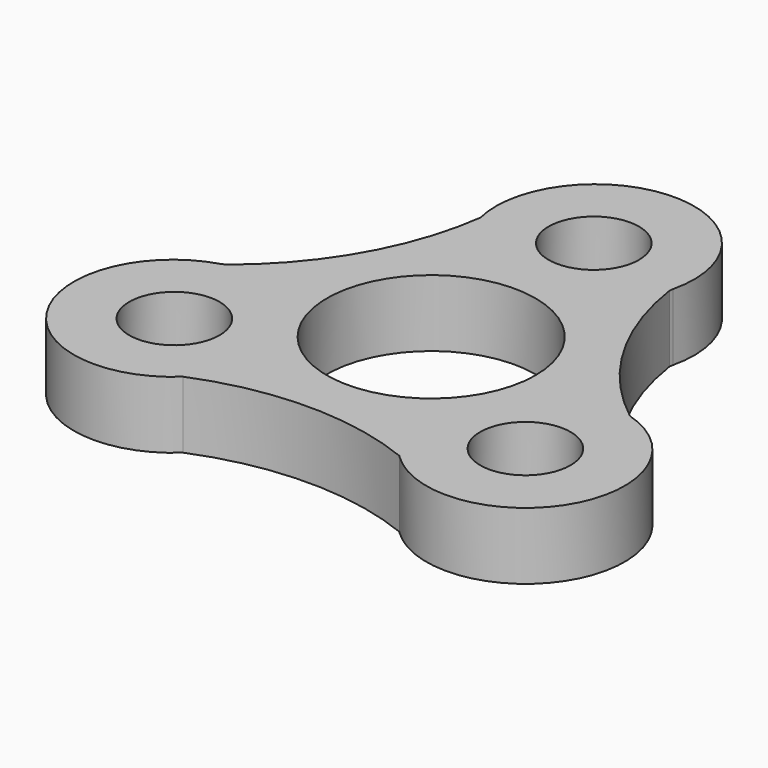
from build123d import *

# Parameters (mm, degrees)
F0_R     = 10.92
F0_R_2   = 4.7275
F1_DEPTH = 7


with BuildPart() as f1:
    # F0 (on Top) → F1 (new body)
    with BuildSketch(Plane.XY):
        Circle(F0_R)
        with BuildLine():
            Line((11.151573, -18.07834), (11.331202, -18.274194))
            ThreePointArc((11.331202, -18.274194), (27.437316, -15.933644), (21.448669, -0.800199))
            ThreePointArc((21.448669, -0.800199), (13.899631, 7.78037), (10.100635, 18.559135))
            Line((10.100635, 18.559135), (10.160315, 18.950206))
            ThreePointArc((10.160315, 18.950206), (0.080283, 31.728235), (-10.031342, 18.975192))
            ThreePointArc((-10.031342, 18.975192), (-13.660086, 8.19612), (-21.035123, -0.462112))
            Line((-21.035123, -0.462112), (-21.491517, -0.676012))
            ThreePointArc((-21.491517, -0.676012), (-27.517599, -15.79459), (-11.417327, -18.174993))
            ThreePointArc((-11.417327, -18.174993), (-0.142296, -15.92724), (11.151573, -18.07834))
        make_face()
        with Locations((-18.405074, -10.591076)):
            Circle(F0_R_2, mode=Mode.SUBTRACT)
        with Locations((18.374678, -10.643723)):
            Circle(F0_R_2, mode=Mode.SUBTRACT)
        Circle(F0_R, mode=Mode.SUBTRACT)
        with Locations((0.030396, 21.234799)):
            Circle(F0_R_2, mode=Mode.SUBTRACT)
    extrude(amount=F1_DEPTH)


solid = f1.part
